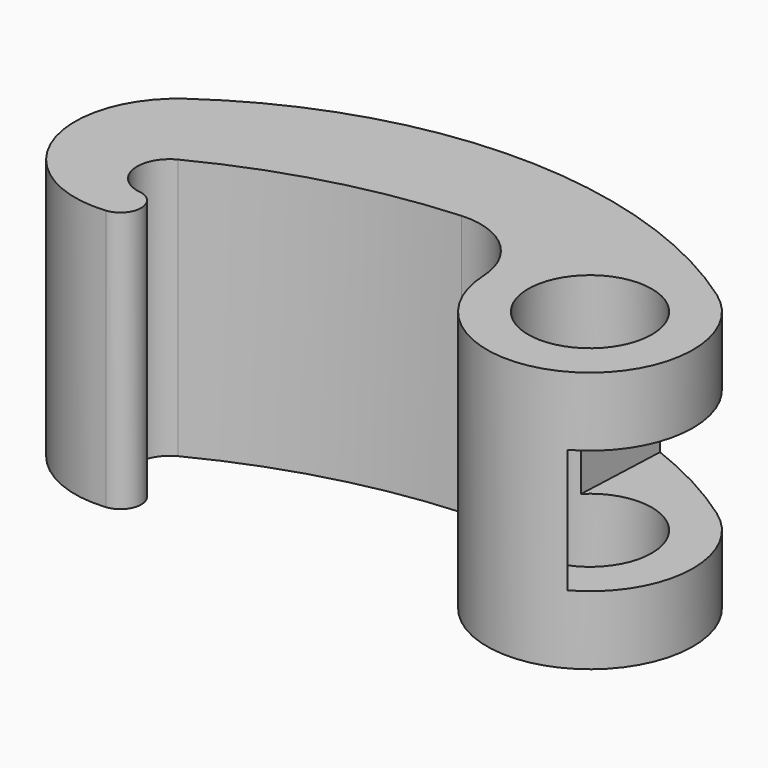
from build123d import *

# Parameters (mm, degrees)
PAD001_DEPTH = 9
SKETCH_R     = 4.5
PAD_DEPTH    = 19


with BuildPart() as pad001:
    # Sketch001 → Pad001 (new body)
    with BuildSketch(Plane.XY.offset(5)):
        Polygon((14.06139, 14.951333), (13.372483, -1.222209), (24.294571, -10.485819), (31.779444, -19.545599), (34.910954, 3.534533), align=None)
    extrude(amount=PAD001_DEPTH)


with BuildPart() as cut:
    # Sketch → Pad (new body)
    with BuildSketch(Plane.XY):
        with BuildLine():
            ThreePointArc((21.042951, 5.555957), (1.73939, 11.668843), (-17.564171, 5.555957))
            ThreePointArc((-17.564171, 5.555957), (-20.279768, -3.182793), (-12.525617, -8.042151))
            ThreePointArc((-12.525617, -8.042151), (-11.161352, -6.565238), (-12.474374, -5.042589))
            ThreePointArc((-13.247026, -0.576927), (-14.504081, -3.094097), (-12.474374, -5.042589))
            ThreePointArc((3.652051, 4.078635), (-5.036131, 2.617099), (-13.247026, -0.576927))
            ThreePointArc((9.233633, -0.919481), (7.491779, 2.750964), (3.652051, 4.078635))
            ThreePointArc((9.233633, -0.919481), (20.331777, -7.15317), (21.042951, 5.555957))
        make_face()
        with Locations((16.725806, -0.576927)):
            Circle(SKETCH_R, mode=Mode.SUBTRACT)
    extrude(amount=PAD_DEPTH)

    # Cut: cut Pad001
    add(pad001.part, mode=Mode.SUBTRACT)


solid = cut.part
